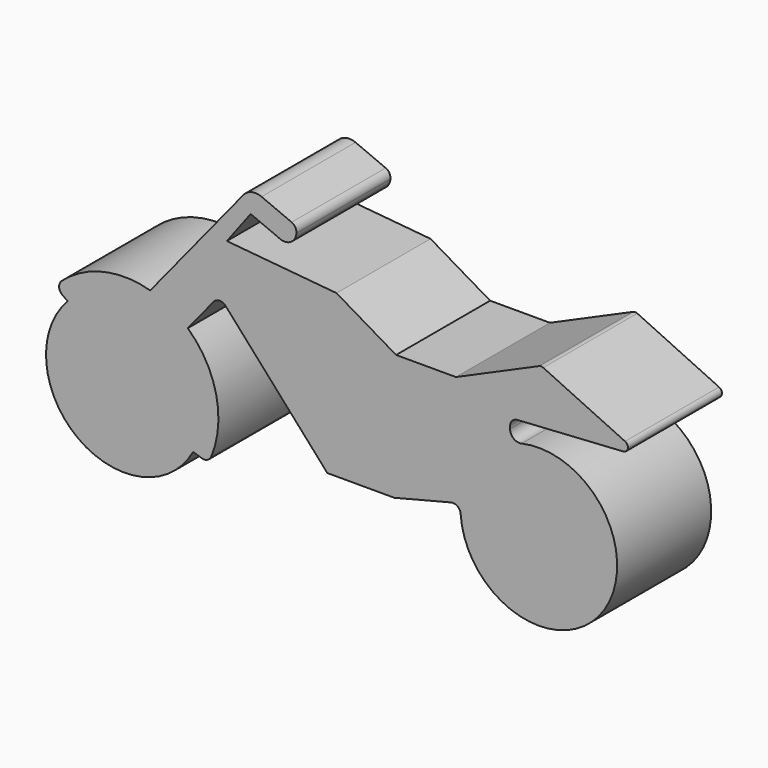
from build123d import *

# Parameters (mm, degrees)
F1_DEPTH = 15


with BuildPart() as f1:
    # F0 (on Front) → F1 (new body)
    with BuildSketch(Plane.XZ):
        with BuildLine():
            Line((-50.211565, 7.379583), (-49.536289, 6.907117))
            ThreePointArc((-49.536289, 6.907117), (-48.215818, -8.066107), (-33.540352, -4.814682))
            Line((-33.540352, -4.814682), (-32.444857, -5.16249))
            ThreePointArc((-32.444857, -5.16249), (-31.720531, -5.116098), (-31.218368, -4.592044))
            ThreePointArc((-31.218368, -4.592044), (-30.591796, 2.607902), (-34.213844, 8.861907))
            Line((-34.213844, 8.861907), (-30.920298, 12.905683))
            ThreePointArc((-30.920298, 12.905683), (-30.167371, 13.273918), (-29.398681, 12.939833))
            Line((-29.398681, 12.939833), (-16.410195, -1.621093))
            Line((-16.410195, -1.621093), (-7.871556, -1.621093))
            Line((-7.871556, -1.621093), (-0.642441, 0.20388))
            ThreePointArc((-0.642441, 0.20388), (0.188985, 0.044133), (0.599902, -0.696093))
            ThreePointArc((0.599902, -0.696093), (18.599287, -5.968348), (8.373546, 9.754525))
            ThreePointArc((8.373546, 9.754525), (7.359995, 9.987757), (6.909294, 10.925068))
            Line((6.909294, 10.925068), (6.909294, 11.237489))
            ThreePointArc((6.909294, 11.237489), (7.180434, 11.922151), (7.846819, 12.235535))
            Line((7.846819, 12.235535), (21.346842, 13.080605))
            ThreePointArc((21.346842, 13.080605), (21.933025, 13.597725), (21.577048, 14.293644))
            Line((21.577048, 14.293644), (11.140821, 19.176345))
            ThreePointArc((11.140821, 19.176345), (10.877845, 19.236347), (10.613608, 19.182167))
            Line((10.613608, 19.182167), (0, 14.499336))
            Line((0, 14.499336), (-7.632633, 14.499336))
            Line((-7.632633, 14.499336), (-15.239003, 18.976845))
            Line((-15.239003, 18.976845), (-29.227387, 20.273161))
            Line((-29.227387, 20.273161), (-26.190706, 24.307124))
            Line((-26.190706, 24.307124), (-22.441075, 22.722935))
            ThreePointArc((-22.441075, 22.722935), (-21.077169, 22.823507), (-20.361762, 23.989073))
            Line((-20.361762, 23.989073), (-20.355286, 24.072853))
            ThreePointArc((-20.355286, 24.072853), (-20.498198, 24.670009), (-20.963128, 25.071082))
            Line((-20.963128, 25.071082), (-24.808915, 26.695896))
            ThreePointArc((-24.808915, 26.695896), (-26.070014, 26.794443), (-27.13801, 26.116602))
            Line((-27.13801, 26.116602), (-39.011024, 11.539056))
            ThreePointArc((-39.011024, 11.539056), (-44.991956, 11.695307), (-50.304952, 8.944303))
            ThreePointArc((-50.304952, 8.944303), (-50.636512, 8.139368), (-50.211565, 7.379583))
        make_face()
    extrude(amount=F1_DEPTH)


solid = f1.part
